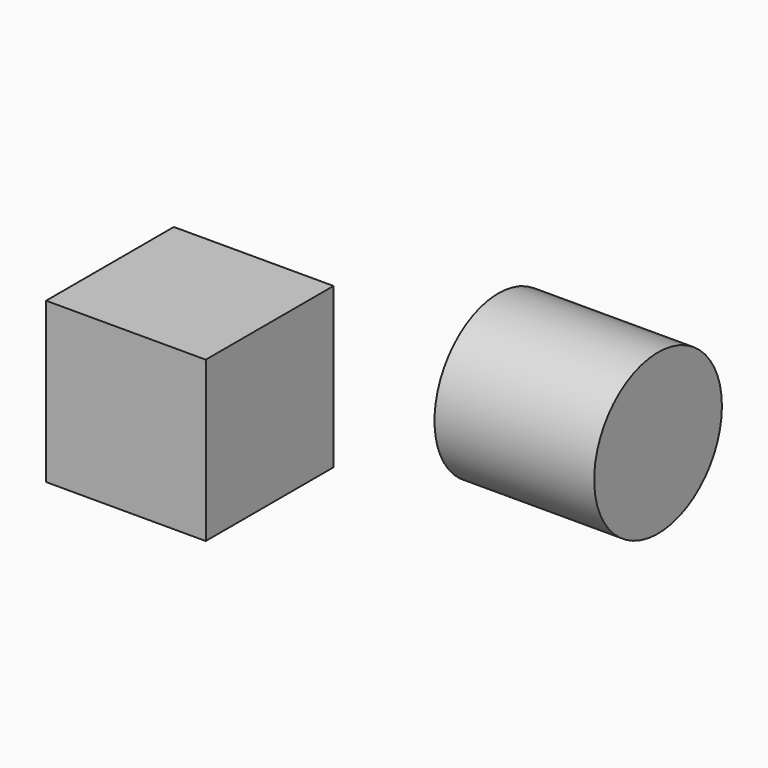
from build123d import *

# Parameters (mm, degrees)
F0_W     = 25.4
F0_H     = 25.4
F1_DEPTH = 25.4
F2_R     = 12.7
F3_DEPTH = 25.4


with BuildPart() as f1:
    # F0 (on Front) → F1 (new body)
    with BuildSketch(Plane.XZ):
        with Locations((-47.986574, 42.910739)):
            Rectangle(F0_W, F0_H)
    extrude(amount=F1_DEPTH)


with BuildPart() as f3:
    # F2 (on Right) → F3 (new body)
    with BuildSketch(Plane.YZ):
        with Locations((-11.326102, 57.96444)):
            Circle(F2_R)
    extrude(amount=F3_DEPTH)


solid = Compound([f1.part, f3.part])
